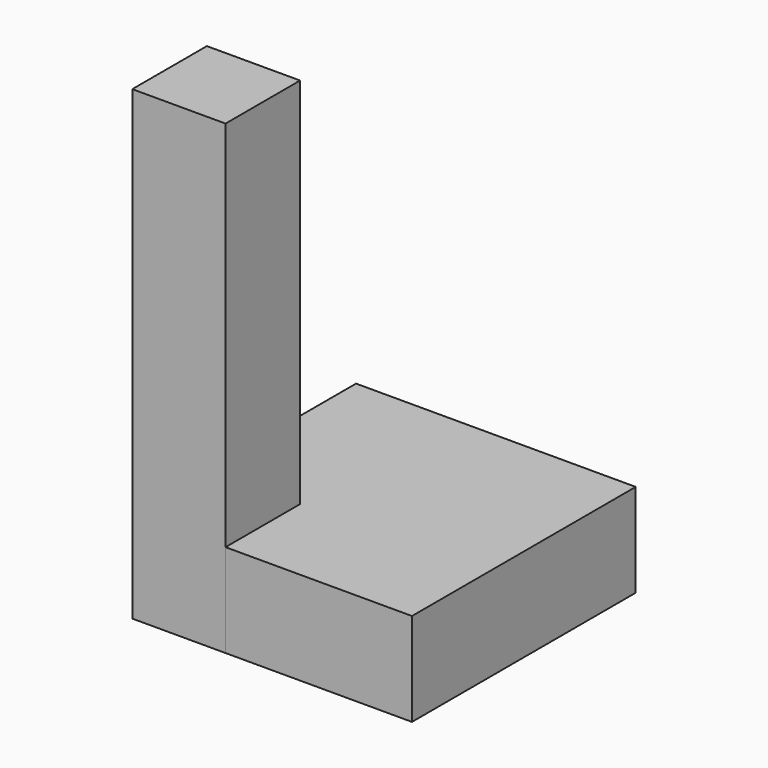
from build123d import *

# Parameters (mm, degrees)
BOX_W        = 30
BOX_H        = 30
BOX_DEPTH    = 10
BOX001_W     = 10
BOX001_H     = 10
BOX001_DEPTH = 50


with BuildPart() as base:
    # Box → Box (new body)
    with BuildSketch(Plane.XY):
        with Locations((15, 15)):
            Rectangle(BOX_W, BOX_H)
    extrude(amount=BOX_DEPTH)


with BuildPart() as torre:
    # Box001 → Box001 (new body)
    with BuildSketch(Plane.XY):
        with Locations((5, 5)):
            Rectangle(BOX001_W, BOX001_H)
    extrude(amount=BOX001_DEPTH)


solid = Compound([base.part, torre.part])
